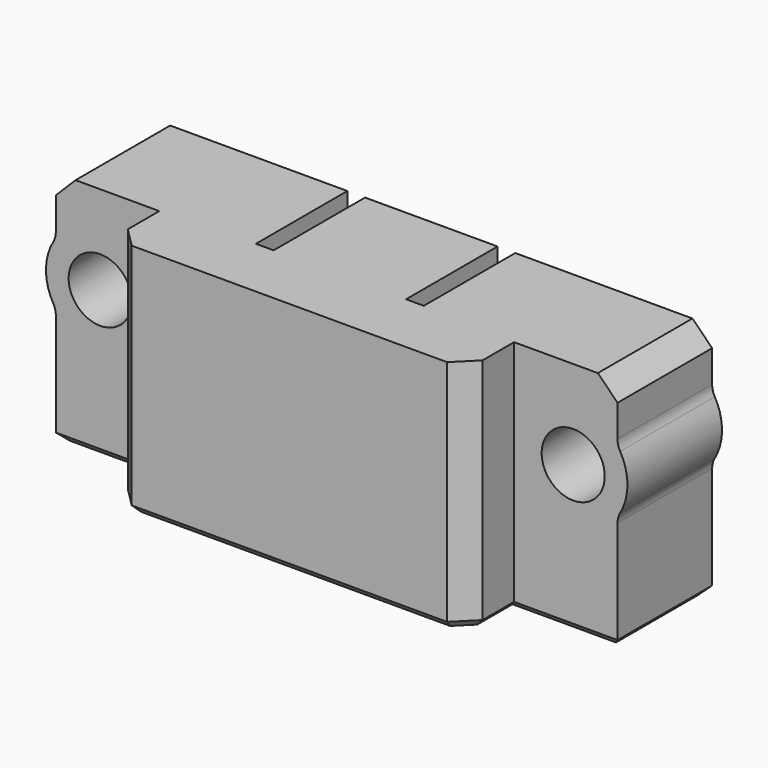
from build123d import *

# Parameters (mm, degrees)
PAD_DEPTH       = 12
SKETCH001_R     = 1.6
POCKET_DEPTH    = 6.001
SKETCH002_W     = 0.9
SKETCH002_H     = 0.9
POCKET001_DEPTH = 12.001
SKETCH003_W     = 0.9
SKETCH003_H     = 1.5
POCKET002_DEPTH = 4.901
FILLET_R        = 1
PAD001_DEPTH    = 6
FILLET001_R     = 1
CHAMFER_SIZE    = 1
CHAMFER001_SIZE = 0.4


with BuildPart() as part:
    # Sketch → Pad (new body)
    with BuildSketch(Plane.XY):
        Polygon((-14.25, 0), (-9, 0), (-9, -3), (9, -3), (9, 0), (14.25, 0), (14.25, 6), (-14.25, 6), align=None)
    extrude(amount=PAD_DEPTH)

    # Sketch001 → Pocket (cut, through all)
    with BuildSketch(Plane.XZ):
        with Locations((-12, 7.5)):
            Circle(SKETCH001_R)
        with Locations((12, 7.5)):
            Circle(SKETCH001_R)
    extrude(amount=-POCKET_DEPTH, mode=Mode.SUBTRACT)

    # Sketch002 → Pocket001 (cut, through all)
    with BuildSketch(Plane.XY):
        with Locations((-3.81, 0.65)):
            Rectangle(SKETCH002_W, SKETCH002_H)
        with Locations((3.81, 0.65)):
            Rectangle(SKETCH002_W, SKETCH002_H)
    extrude(amount=POCKET001_DEPTH, mode=Mode.SUBTRACT)

    # Sketch003 (on Face15 of Pocket001) → Pocket002 (cut, through all)
    with BuildSketch(Plane.XZ.offset(-1.1)):
        with Locations((3.81, 11.25)):
            Rectangle(SKETCH003_W, SKETCH003_H)
        with Locations((-3.81, 11.25)):
            Rectangle(SKETCH003_W, SKETCH003_H)
    extrude(amount=-POCKET002_DEPTH, mode=Mode.SUBTRACT)

    # Fillet
    fillet_edges = [part.edges().sort_by_distance(p)[0] for p in [
        (3.81, 1.1, 10.5),
        (-3.81, 1.1, 10.5),
    ]]
    fillet(fillet_edges, radius=FILLET_R)

    # Sketch004 → Pad001 (join)
    with BuildSketch(Plane.XZ):
        with BuildLine():
            ThreePointArc((14.25, 5.918861), (14.75, 7.5), (14.25, 9.081139))
            Line((14.25, 9.081139), (14.25, 5.918861))
        make_face()
    pad001 = extrude(amount=-PAD001_DEPTH)

    # Mirrored: Pad001 across Sketch004 V_Axis
    add(pad001.mirror(Plane(origin=(0, 0, 0), x_dir=(0, -1, 0), z_dir=(1, 0, 0))))

    # Fillet001
    fillet001_edges = [part.edges().sort_by_distance(p)[0] for p in [
        (14.25, 3, 9.081139),
        (14.25, 3, 5.918861),
        (-14.25, 3, 9.081139),
        (-14.25, 3, 5.918861),
    ]]
    fillet(fillet001_edges, radius=FILLET001_R)

    # Chamfer
    chamfer_edges = [part.edges().sort_by_distance(p)[0] for p in [
        (14.25, 3, 12),
        (-14.25, 3, 12),
        (9, -3, 6),
        (-9, -3, 6),
    ]]
    chamfer(chamfer_edges, length=CHAMFER_SIZE)

    # Chamfer001
    chamfer001_edges = [part.edges().sort_by_distance(p)[0] for p in [
        (-9, -1, 0),
        (-8.5, -2.5, 0),
        (-11.625, 0, 0),
        (0, -3, 0),
        (-14.25, 3, 0),
        (8.5, -2.5, 0),
        (0, 6, 0),
        (9, -1, 0),
        (14.25, 3, 0),
        (11.625, 0, 0),
        (3.36, 0.65, 0),
        (3.81, 0.2, 0),
        (4.26, 0.65, 0),
        (3.81, 1.1, 0),
        (-4.26, 0.65, 0),
        (-3.81, 0.2, 0),
        (-3.36, 0.65, 0),
        (-3.81, 1.1, 0),
    ]]
    chamfer(chamfer001_edges, length=CHAMFER001_SIZE)


solid = part.part
